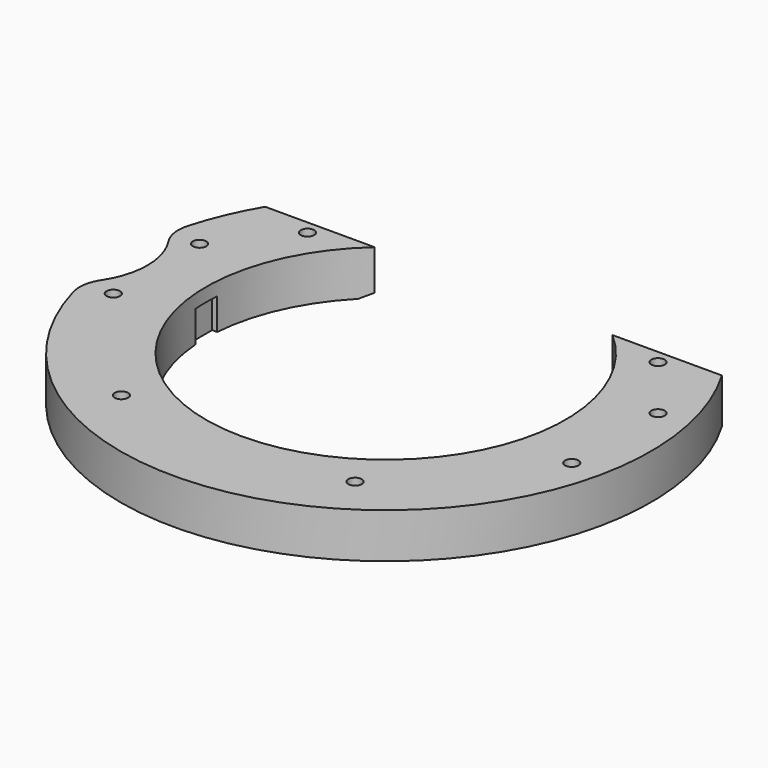
from build123d import *

# Parameters (mm, degrees)
CYLINDER2353_R         = 17
CYLINDER2353_DEPTH     = 160
CYLINDER2410_R         = 60.2
CYLINDER2410_DEPTH     = 58
BOX593_W               = 6
BOX593_H               = 6
BOX593_DEPTH           = 64
BOX592_W               = 6
BOX592_H               = 6
BOX592_DEPTH           = 64
CYLINDER2386_R         = 3
CYLINDER2386_DEPTH     = 3
CYLINDER2368_R         = 3
CYLINDER2368_DEPTH     = 3
CYLINDER2394_R         = 1.5
CYLINDER2394_DEPTH     = 32
CYLINDER2392_R         = 1.5
CYLINDER2392_DEPTH     = 32
CYLINDER2391_R         = 1.5
CYLINDER2391_DEPTH     = 100
CYLINDER2406_R         = 1.5
CYLINDER2406_DEPTH     = 100
CYLINDER2396_R         = 1.5
CYLINDER2396_DEPTH     = 50
CYLINDER2393_R         = 1.5
CYLINDER2393_DEPTH     = 50
CYLINDER2389_R         = 1.5
CYLINDER2389_DEPTH     = 50
CYLINDER2398_R         = 1.5
CYLINDER2398_DEPTH     = 50
CYLINDER2379_R         = 1.5
CYLINDER2379_DEPTH     = 100
CYLINDER2399_R         = 1.5
CYLINDER2399_DEPTH     = 100
CYLINDER2401_R         = 1.5
CYLINDER2401_DEPTH     = 100
CYLINDER2405_R         = 1.5
CYLINDER2405_DEPTH     = 100
BOX590_W               = 200
BOX590_H               = 100
BOX590_DEPTH           = 32
TUBE096_R              = 59
TUBE096_R_2            = 40
TUBE096_DEPTH          = 10
CUT574_PLACEMENT_ANGLE = 180
FILLET047_R            = 8


with BuildPart() as obj1:
    # Cylinder2353 → Cylinder2353 (new body)
    with BuildSketch(Plane(origin=(-18, 0, -60), x_dir=(1, 0, 0), z_dir=(0, 0, 1))):
        Circle(CYLINDER2353_R)
    extrude(amount=CYLINDER2353_DEPTH)


with BuildPart() as obj2:
    # Cylinder2410 → Cylinder2410 (new body)
    with BuildSketch(Plane(origin=(0, 19, -53), x_dir=(1, 0, 0), z_dir=(0, -1, 0))):
        Circle(CYLINDER2410_R)
    extrude(amount=CYLINDER2410_DEPTH)


with BuildPart() as krychle593:
    # Box593 → Box593 (new body)
    with BuildSketch(Plane(origin=(87, -3, -93), x_dir=(1, 0, 0), z_dir=(0, 0, 1))):
        with Locations((3, 3)):
            Rectangle(BOX593_W, BOX593_H)
    extrude(amount=BOX593_DEPTH)


with BuildPart() as compound1005:
    # Box592 → Box592 (new body)
    with BuildSketch(Plane(origin=(11, -3, -93), x_dir=(1, 0, 0), z_dir=(0, 0, 1))):
        with Locations((3, 3)):
            Rectangle(BOX592_W, BOX592_H)
    extrude(amount=BOX592_DEPTH)

    # Compound1005: union Krychle593
    add(krychle593.part)


with BuildPart() as compound1005_1:
    # Compound1005 placement: moved
    add(compound1005.part.moved(Location((-52, 0, 36))))


with BuildPart() as obj3:
    # Cylinder2386 → Cylinder2386 (new body)
    with BuildSketch(Plane(origin=(78, 41, -42), x_dir=(1, 0, 0), z_dir=(0, 0, 1))):
        Circle(CYLINDER2386_R)
    extrude(amount=CYLINDER2386_DEPTH)


with BuildPart() as compound1002:
    # Cylinder2368 → Cylinder2368 (new body)
    with BuildSketch(Plane(origin=(26, 41, -42), x_dir=(1, 0, 0), z_dir=(0, 0, 1))):
        Circle(CYLINDER2368_R)
    extrude(amount=CYLINDER2368_DEPTH)

    # Compound1002: union obj3
    add(obj3.part)


with BuildPart() as compound1002_1:
    # Compound1002 placement: moved
    add(compound1002.part.moved(Location((-52, 0, 42))))


with BuildPart() as obj4:
    # Cylinder2394 → Cylinder2394 (new body)
    with BuildSketch(Plane(origin=(78, 41, -42), x_dir=(1, 0, 0), z_dir=(0, 0, 1))):
        Circle(CYLINDER2394_R)
    extrude(amount=CYLINDER2394_DEPTH)


with BuildPart() as compound1008:
    # Cylinder2392 → Cylinder2392 (new body)
    with BuildSketch(Plane(origin=(26, 41, -42), x_dir=(1, 0, 0), z_dir=(0, 0, 1))):
        Circle(CYLINDER2392_R)
    extrude(amount=CYLINDER2392_DEPTH)

    # Compound1008: union obj4
    add(obj4.part)


with BuildPart() as compound1008_1:
    # Compound1008 placement: moved
    add(compound1008.part.moved(Location((-52, 0, 36))))


with BuildPart() as obj5:
    # Cylinder2391 → Cylinder2391 (new body)
    with BuildSketch(Plane(origin=(14, 0, -60), x_dir=(1, 0, 0), z_dir=(0, 0, 1))):
        Circle(CYLINDER2391_R)
    extrude(amount=CYLINDER2391_DEPTH)


with BuildPart() as compound1006:
    # Cylinder2406 → Cylinder2406 (new body)
    with BuildSketch(Plane(origin=(90, 0, -60), x_dir=(1, 0, 0), z_dir=(0, 0, 1))):
        Circle(CYLINDER2406_R)
    extrude(amount=CYLINDER2406_DEPTH)

    # Compound1022: union obj5
    add(obj5.part)


with BuildPart() as compound1006_1:
    # Compound1022 placement: moved
    add(compound1006.part.moved(Location((-52, 0, 0))))

    # Compound1006: union Compound1008
    add(compound1008_1.part)


with BuildPart() as obj6:
    # Cylinder2396 → Cylinder2396 (new body)
    with BuildSketch(Plane(origin=(-51, 6, 0), x_dir=(1, 0, 0), z_dir=(0, 0, 1))):
        Circle(CYLINDER2396_R)
    extrude(amount=CYLINDER2396_DEPTH)


with BuildPart() as obj7:
    # Cylinder2393 → Cylinder2393 (new body)
    with BuildSketch(Plane(origin=(-24, 18, 0), x_dir=(1, 0, 0), z_dir=(0, 0, 1))):
        Circle(CYLINDER2393_R)
    extrude(amount=CYLINDER2393_DEPTH)


with BuildPart() as obj8:
    # Cylinder2389 → Cylinder2389 (new body)
    with BuildSketch(Plane(origin=(24, 18, 0), x_dir=(1, 0, 0), z_dir=(0, 0, 1))):
        Circle(CYLINDER2389_R)
    extrude(amount=CYLINDER2389_DEPTH)


with BuildPart() as compound1015:
    # Cylinder2398 → Cylinder2398 (new body)
    with BuildSketch(Plane(origin=(51, 6, 0), x_dir=(1, 0, 0), z_dir=(0, 0, 1))):
        Circle(CYLINDER2398_R)
    extrude(amount=CYLINDER2398_DEPTH)

    # Compound1015: union obj6, obj7, obj8
    add(obj6.part)
    add(obj7.part)
    add(obj8.part)


with BuildPart() as compound1015_1:
    # Compound1015 placement: moved
    add(compound1015.part.moved(Location((0, 6, 0))))


with BuildPart() as obj9:
    # Cylinder2379 → Cylinder2379 (new body)
    with BuildSketch(Plane(origin=(51, -12, 0), x_dir=(1, 0, 0), z_dir=(0, 0, 1))):
        Circle(CYLINDER2379_R)
    extrude(amount=CYLINDER2379_DEPTH)


with BuildPart() as compound997:
    # Cylinder2399 → Cylinder2399 (new body)
    with BuildSketch(Plane(origin=(-51, -12, 0), x_dir=(1, 0, 0), z_dir=(0, 0, 1))):
        Circle(CYLINDER2399_R)
    extrude(amount=CYLINDER2399_DEPTH)

    # Compound997: union obj9
    add(obj9.part)


with BuildPart() as obj10:
    # Cylinder2401 → Cylinder2401 (new body)
    with BuildSketch(Plane(origin=(39, -21, 0), x_dir=(1, 0, 0), z_dir=(0, 0, 1))):
        Circle(CYLINDER2401_R)
    extrude(amount=CYLINDER2401_DEPTH)


with BuildPart() as compound1018:
    # Cylinder2405 → Cylinder2405 (new body)
    with BuildSketch(Plane(origin=(-39, -21, 0), x_dir=(1, 0, 0), z_dir=(0, 0, 1))):
        Circle(CYLINDER2405_R)
    extrude(amount=CYLINDER2405_DEPTH)

    # Compound1017: union obj10
    add(obj10.part)


with BuildPart() as compound1018_1:
    # Compound1017 placement: moved
    add(compound1018.part.moved(Location((0, -6, 0))))

    # Compound1018: union Compound1015, Compound997
    add(compound1015_1.part)
    add(compound997.part)


with BuildPart() as compound1018_2:
    # Compound1018 placement: moved
    add(compound1018_1.part.moved(Location((0, 0, -10))))


with BuildPart() as krychle590:
    # Box590 → Box590 (new body)
    with BuildSketch(Plane(origin=(-100, -130, 0), x_dir=(1, 0, 0), z_dir=(0, 0, 1))):
        with Locations((100, 50)):
            Rectangle(BOX590_W, BOX590_H)
    extrude(amount=BOX590_DEPTH)


with BuildPart() as fillet047:
    # Tube096 → Tube096 (new body)
    with BuildSketch(Plane.XY):
        Circle(TUBE096_R)
        Circle(TUBE096_R_2, mode=Mode.SUBTRACT)
    extrude(amount=TUBE096_DEPTH)

    # Cut575: cut Krychle590
    add(krychle590.part, mode=Mode.SUBTRACT)

    # Cut591: cut Compound1018
    add(compound1018_2.part, mode=Mode.SUBTRACT)

    # Cut585: cut Compound1006
    add(compound1006_1.part, mode=Mode.SUBTRACT)

    # Cut578: cut Compound1002
    add(compound1002_1.part, mode=Mode.SUBTRACT)

    # Cut592: cut Compound1005
    add(compound1005_1.part, mode=Mode.SUBTRACT)

    # Cut574: cut obj2
    add(obj2.part, mode=Mode.SUBTRACT)


with BuildPart() as fillet047_1:
    # Cut574 placement: moved
    add(fillet047.part.moved(Location((52, 0, -36))).rotate(Axis((52, 0, -36), (0, 0, 1)), CUT574_PLACEMENT_ANGLE))

    # Cut593: cut obj1
    add(obj1.part, mode=Mode.SUBTRACT)

    # Fillet047
    fillet047_edges = [fillet047_1.edges().sort_by_distance(p)[0] for p in [
        (-5.8, 11.838919, -31),
        (-5.8, -11.838919, -31),
    ]]
    fillet(fillet047_edges, radius=FILLET047_R)


solid = fillet047_1.part
